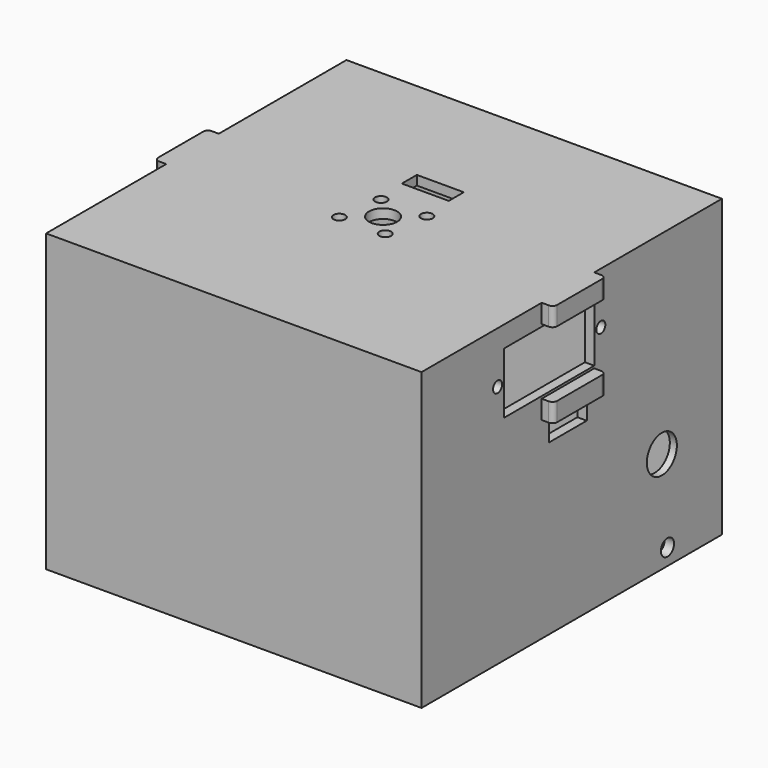
from build123d import *

# Parameters (mm, degrees)
BOX066_W                  = 10
BOX066_H                  = 4
BOX066_DEPTH              = 10
CYLINDER084_R             = 3
CYLINDER084_DEPTH         = 13
CYLINDER084_ROLL_ANGLE    = 90
CYLINDER087_R             = 1.25
CYLINDER087_DEPTH         = 22
CYLINDER087_PITCH_ANGLE   = 90
CYLINDER088_R             = 1.25
CYLINDER088_DEPTH         = 22
CYLINDER088_PITCH_ANGLE   = 90
CYLINDER086_R             = 1.25
CYLINDER086_DEPTH         = 22
CYLINDER086_PITCH_ANGLE   = 90
CYLINDER085_R             = 1.25
CYLINDER085_DEPTH         = 22
CYLINDER085_PITCH_ANGLE   = 90
FUSION063_ROLL_ANGLE      = 34
FUSION063_PLACEMENT_ANGLE = -90
FUSION064_ROLL_ANGLE      = 90
BOX065_W                  = 10
BOX065_H                  = 94
BOX065_DEPTH              = 4
BOX062_W                  = 14
BOX062_H                  = 3
BOX062_DEPTH              = 4
BOX061_W                  = 14
BOX061_H                  = 3
BOX061_DEPTH              = 4
BOX063_W                  = 14
BOX063_H                  = 3
BOX063_DEPTH              = 4
BOX064_W                  = 14
BOX064_H                  = 3
BOX064_DEPTH              = 4
SKETCH017_R               = 1.2
SKETCH017_W               = 24
SKETCH017_H               = 13
PAD012_DEPTH              = 140
CYLINDER080_R             = 6
CYLINDER080_DEPTH         = 31
CYLINDER080_ROLL_ANGLE    = 90
CYLINDER078_R             = 1.75
CYLINDER078_DEPTH         = 31
CYLINDER078_ROLL_ANGLE    = 90
BOX059_W                  = 17
BOX059_H                  = 77
BOX059_DEPTH              = 49
FILLET018013005_R         = 2
CYLINDER083_R             = 4
CYLINDER083_DEPTH         = 31
CYLINDER083_ROLL_ANGLE    = 90
CYLINDER079_R             = 1.75
CYLINDER079_DEPTH         = 31
CYLINDER079_ROLL_ANGLE    = 90
BOX058_W                  = 8
BOX058_H                  = 24
BOX058_DEPTH              = 11
BOX057_W                  = 76
BOX057_H                  = 76
BOX057_DEPTH              = 66
FILLET018013003_R         = 3.5
BOX060_W                  = 80
BOX060_H                  = 80
BOX060_DEPTH              = 63
FILLET018013006_R         = 1
CLONE024_PLACEMENT_ANGLE  = -90


with BuildPart() as cubo012:
    # Box066 → Box066 (new body)
    with BuildSketch(Plane(origin=(-244, 64, 124), x_dir=(1, 0, 0), z_dir=(0, 0, 1))):
        with Locations((5, 2)):
            Rectangle(BOX066_W, BOX066_H)
    extrude(amount=BOX066_DEPTH)


with BuildPart() as cilindro019:
    # Cylinder084 → Cylinder084 (new body)
    with BuildSketch(Plane.XY):
        Circle(CYLINDER084_R)
    extrude(amount=CYLINDER084_DEPTH)


with BuildPart() as cilindro019_1:
    # Cylinder084 roll: moved
    add(cilindro019.part.rotate(Axis((0, 0, 0), (1, 0, 0)), CYLINDER084_ROLL_ANGLE))


with BuildPart() as cilindro019_2:
    # Cylinder084 placement: moved
    add(cilindro019_1.part.moved(Location((17.25, -6, 120))))


with BuildPart() as cilindro022:
    # Cylinder087 → Cylinder087 (new body)
    with BuildSketch(Plane.XY):
        Circle(CYLINDER087_R)
    extrude(amount=CYLINDER087_DEPTH)


with BuildPart() as cilindro022_1:
    # Cylinder087 pitch: moved
    add(cilindro022.part.rotate(Axis((0, 0, 0), (0, 1, 0)), CYLINDER087_PITCH_ANGLE))


with BuildPart() as cilindro022_2:
    # Cylinder087 placement: moved
    add(cilindro022_1.part.moved(Location((20.25, -38, 124.25))))


with BuildPart() as cilindro023:
    # Cylinder088 → Cylinder088 (new body)
    with BuildSketch(Plane.XY):
        Circle(CYLINDER088_R)
    extrude(amount=CYLINDER088_DEPTH)


with BuildPart() as cilindro023_1:
    # Cylinder088 pitch: moved
    add(cilindro023.part.rotate(Axis((0, 0, 0), (0, 1, 0)), CYLINDER088_PITCH_ANGLE))


with BuildPart() as cilindro023_2:
    # Cylinder088 placement: moved
    add(cilindro023_1.part.moved(Location((20.25, -26, 127.25))))


with BuildPart() as cilindro021:
    # Cylinder086 → Cylinder086 (new body)
    with BuildSketch(Plane.XY):
        Circle(CYLINDER086_R)
    extrude(amount=CYLINDER086_DEPTH)


with BuildPart() as cilindro021_1:
    # Cylinder086 pitch: moved
    add(cilindro021.part.rotate(Axis((0, 0, 0), (0, 1, 0)), CYLINDER086_PITCH_ANGLE))


with BuildPart() as cilindro021_2:
    # Cylinder086 placement: moved
    add(cilindro021_1.part.moved(Location((20.25, -30, 118.75))))


with BuildPart() as fusion064:
    # Cylinder085 → Cylinder085 (new body)
    with BuildSketch(Plane.XY):
        Circle(CYLINDER085_R)
    extrude(amount=CYLINDER085_DEPTH)


with BuildPart() as fusion064_1:
    # Cylinder085 pitch: moved
    add(fusion064.part.rotate(Axis((0, 0, 0), (0, 1, 0)), CYLINDER085_PITCH_ANGLE))


with BuildPart() as fusion064_2:
    # Cylinder085 placement: moved
    add(fusion064_1.part.moved(Location((20.25, -34, 132.75))))

    # Fusion063: union Cilindro022, Cilindro023, Cilindro021
    add(cilindro022_2.part)
    add(cilindro023_2.part)
    add(cilindro021_2.part)


with BuildPart() as fusion064_3:
    # Fusion063 roll: moved
    add(fusion064_2.part.rotate(Axis((0, 0, 0), (1, 0, 0)), FUSION063_ROLL_ANGLE))


with BuildPart() as fusion064_4:
    # Fusion063 placement: moved
    add(fusion064_3.part.moved(Location((114.107998, 21, 33.646227))).rotate(Axis((114.107998, 21, 33.646227), (0, 0, 1)), FUSION063_PLACEMENT_ANGLE))

    # Fusion064: union Cilindro019
    add(cilindro019_2.part)


with BuildPart() as fusion064_5:
    # Fusion064 roll: moved
    add(fusion064_4.part.rotate(Axis((0, 0, 0), (1, 0, 0)), FUSION064_ROLL_ANGLE))


with BuildPart() as fusion064_6:
    # Fusion064 placement: moved
    add(fusion064_5.part.moved(Location((-256.25, 172.75, 144))))


with BuildPart() as cubo:
    # Box065 → Box065 (new body)
    with BuildSketch(Plane(origin=(13, -11, 104), x_dir=(1, 0, 0), z_dir=(0, 0, 1))):
        with Locations((5, 47)):
            Rectangle(BOX065_W, BOX065_H)
    extrude(amount=BOX065_DEPTH)


with BuildPart() as cubo009:
    # Box062 → Box062 (new body)
    with BuildSketch(Plane(origin=(11, 75.5, 127), x_dir=(1, 0, 0), z_dir=(0, 0, 1))):
        with Locations((7, 1.5)):
            Rectangle(BOX062_W, BOX062_H)
    extrude(amount=BOX062_DEPTH)


with BuildPart() as cubo008:
    # Box061 → Box061 (new body)
    with BuildSketch(Plane(origin=(11, 75.5, 109), x_dir=(1, 0, 0), z_dir=(0, 0, 1))):
        with Locations((7, 1.5)):
            Rectangle(BOX061_W, BOX061_H)
    extrude(amount=BOX061_DEPTH)


with BuildPart() as cubo010:
    # Box063 → Box063 (new body)
    with BuildSketch(Plane(origin=(11, -6.5, 109), x_dir=(1, 0, 0), z_dir=(0, 0, 1))):
        with Locations((7, 1.5)):
            Rectangle(BOX063_W, BOX063_H)
    extrude(amount=BOX063_DEPTH)


with BuildPart() as cubo011:
    # Box064 → Box064 (new body)
    with BuildSketch(Plane(origin=(11, -6.5, 127), x_dir=(1, 0, 0), z_dir=(0, 0, 1))):
        with Locations((7, 1.5)):
            Rectangle(BOX064_W, BOX064_H)
    extrude(amount=BOX064_DEPTH)


with BuildPart() as pad012:
    # Sketch017 → Pad012 (new body)
    with BuildSketch(Plane(origin=(-0.25, -35, 0), x_dir=(1, 0, 0), z_dir=(0, -1, 0))):
        with Locations((37, 120)):
            Circle(SKETCH017_R)
        with Locations((9.5, 120)):
            Circle(SKETCH017_R)
        with Locations((23.25, 120)):
            Rectangle(SKETCH017_W, SKETCH017_H)
    extrude(amount=-PAD012_DEPTH)


with BuildPart() as cylinder107:
    # Cylinder080 → Cylinder080 (new body)
    with BuildSketch(Plane.XY):
        Circle(CYLINDER080_R)
    extrude(amount=CYLINDER080_DEPTH)


with BuildPart() as cylinder107_1:
    # Cylinder080 roll: moved
    add(cylinder107.part.rotate(Axis((0, 0, 0), (1, 0, 0)), CYLINDER080_ROLL_ANGLE))


with BuildPart() as cylinder107_2:
    # Cylinder080 placement: moved
    add(cylinder107_1.part.moved(Location((-4, 11, 83.5))))


with BuildPart() as cylinder105:
    # Cylinder078 → Cylinder078 (new body)
    with BuildSketch(Plane.XY):
        Circle(CYLINDER078_R)
    extrude(amount=CYLINDER078_DEPTH)


with BuildPart() as cylinder105_1:
    # Cylinder078 roll: moved
    add(cylinder105.part.rotate(Axis((0, 0, 0), (1, 0, 0)), CYLINDER078_ROLL_ANGLE))


with BuildPart() as cylinder105_2:
    # Cylinder078 placement: moved
    add(cylinder105_1.part.moved(Location((-8.5, 11, 71.5))))


with BuildPart() as fillet018013005:
    # Box059 → Box059 (new body)
    with BuildSketch(Plane(origin=(-14, -2.5, 75), x_dir=(1, 0, 0), z_dir=(0, 0, 1))):
        with Locations((8.5, 38.5)):
            Rectangle(BOX059_W, BOX059_H)
    extrude(amount=BOX059_DEPTH)

    # Fillet018013005
    fillet018013005_edges = [fillet018013005.edges().sort_by_distance(p)[0] for p in [
        (-14, -2.5, 99.5),
        (-14, 36, 124),
        (-14, 74.5, 99.5),
        (-14, 36, 75),
        (3, -2.5, 99.5),
        (3, 36, 124),
        (3, 74.5, 99.5),
        (3, 36, 75),
        (-5.5, -2.5, 75),
        (-5.5, -2.5, 124),
        (-5.5, 74.5, 75),
        (-5.5, 74.5, 124),
    ]]
    fillet(fillet018013005_edges, radius=FILLET018013005_R)


with BuildPart() as cylinder108:
    # Cylinder083 → Cylinder083 (new body)
    with BuildSketch(Plane.XY):
        Circle(CYLINDER083_R)
    extrude(amount=CYLINDER083_DEPTH)


with BuildPart() as cylinder108_1:
    # Cylinder083 roll: moved
    add(cylinder108.part.rotate(Axis((0, 0, 0), (1, 0, 0)), CYLINDER083_ROLL_ANGLE))


with BuildPart() as cylinder108_2:
    # Cylinder083 placement: moved
    add(cylinder108_1.part.moved(Location((-7, 80, 89.6))))


with BuildPart() as cylinder106:
    # Cylinder079 → Cylinder079 (new body)
    with BuildSketch(Plane.XY):
        Circle(CYLINDER079_R)
    extrude(amount=CYLINDER079_DEPTH)


with BuildPart() as cylinder106_1:
    # Cylinder079 roll: moved
    add(cylinder106.part.rotate(Axis((0, 0, 0), (1, 0, 0)), CYLINDER079_ROLL_ANGLE))


with BuildPart() as cylinder106_2:
    # Cylinder079 placement: moved
    add(cylinder106_1.part.moved(Location((-8.5, 80, 71.5))))


with BuildPart() as fusion061:
    # Box058 → Box058 (new body)
    with BuildSketch(Plane(origin=(-13.5, -13, 95), x_dir=(1, 0, 0), z_dir=(0, 0, 1))):
        with Locations((4, 12)):
            Rectangle(BOX058_W, BOX058_H)
    extrude(amount=BOX058_DEPTH)

    # Fusion061: union Cylinder107, Cylinder105, Fillet018013005, Cylinder108, Cylinder106
    add(cylinder107_2.part)
    add(cylinder105_2.part)
    add(fillet018013005.part)
    add(cylinder108_2.part)
    add(cylinder106_2.part)


with BuildPart() as fillet018013003:
    # Box057 → Box057 (new body)
    with BuildSketch(Plane(origin=(-21, -2, 87), x_dir=(1, 0, 0), z_dir=(0, 0, 1))):
        with Locations((38, 38)):
            Rectangle(BOX057_W, BOX057_H)
    extrude(amount=BOX057_DEPTH)

    # Fillet018013003
    fillet018013003_edges = [fillet018013003.edges().sort_by_distance(p)[0] for p in [
        (-21, -2, 120),
        (-21, 36, 153),
        (-21, 74, 120),
        (55, -2, 120),
        (55, 36, 153),
        (55, 74, 120),
        (17, -2, 153),
        (17, 74, 153),
    ]]
    fillet(fillet018013003_edges, radius=FILLET018013003_R)


with BuildPart() as fillet018013003_1:
    # Fillet018013003 placement: moved
    add(fillet018013003.part.moved(Location((0, 0, -24))))


with BuildPart() as body_yaw_head:
    # Box060 → Box060 (new body)
    with BuildSketch(Plane(origin=(-23, -4, 68), x_dir=(1, 0, 0), z_dir=(0, 0, 1))):
        with Locations((40, 40)):
            Rectangle(BOX060_W, BOX060_H)
    extrude(amount=BOX060_DEPTH)

    # Cut103: cut Fillet018013003
    add(fillet018013003_1.part, mode=Mode.SUBTRACT)

    # Cut104: cut Fusion061
    add(fusion061.part, mode=Mode.SUBTRACT)

    # Cut105: cut Pad012
    add(pad012.part, mode=Mode.SUBTRACT)

    # Fusion062: union Cubo009, Cubo008, Cubo010, Cubo011
    add(cubo009.part)
    add(cubo008.part)
    add(cubo010.part)
    add(cubo011.part)

    # Fillet018013006
    fillet018013006_edges = [body_yaw_head.edges().sort_by_distance(p)[0] for p in [
        (25, -6.5, 129),
        (11, -6.5, 129),
        (11, -6.5, 111),
        (25, -6.5, 111),
        (25, 78.5, 129),
        (11, 78.5, 129),
        (25, 78.5, 111),
        (11, 78.5, 111),
    ]]
    fillet(fillet018013006_edges, radius=FILLET018013006_R)

    # Cut107: cut Cubo
    add(cubo.part, mode=Mode.SUBTRACT)


with BuildPart() as body_yaw_head_1:
    # Clone024 placement: moved
    add(body_yaw_head.part.moved(Location((-275, 70, 2))).rotate(Axis((-275, 70, 2), (0, 0, 1)), CLONE024_PLACEMENT_ANGLE))

    # Cut108: cut Fusion064
    add(fusion064_6.part, mode=Mode.SUBTRACT)

    # Cut109: cut Cubo012
    add(cubo012.part, mode=Mode.SUBTRACT)


solid = body_yaw_head_1.part
